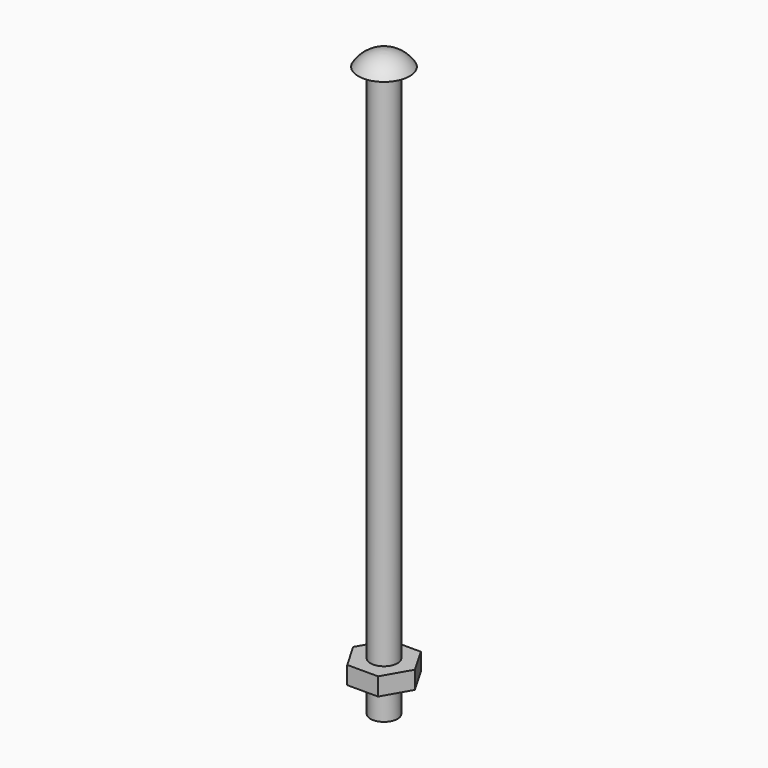
from build123d import *

# Parameters (mm, degrees)
F3_DEPTH = 3.175
F4_R     = 2.413
F5_DEPTH = 5.55625


with BuildPart() as f1:
    # F0 (on Front) → F1 (revolve)
    with BuildSketch(Plane.XZ):
        with BuildLine():
            Line((0, 0), (0, 92.86875))
            Line((0, 92.86875), (0, 95.43415))
            ThreePointArc((0, 95.43415), (-2.626821, 94.749192), (-4.5847, 92.86875))
            Line((-4.5847, 92.86875), (-2.413, 92.86875))
            Line((-2.413, 92.86875), (-2.413, 0))
            Line((-2.413, 0), (0, 0))
        make_face()
    revolve(axis=Axis((0, 0, 46.434375), (0, 0, -1)))

    # F2 (on face) → F3 (join)
    with BuildSketch(Plane(origin=(0, 0, 0), x_dir=(1, 0, 0), z_dir=(0, 0, -1))):
        Polygon((2.749631, 4.7625), (-2.749631, 4.7625), (-5.499261, 0), (-2.749631, -4.7625), (2.749631, -4.7625), (5.499261, 0), align=None)
    extrude(amount=F3_DEPTH)

    # F4 (on face) → F5 (join)
    with BuildSketch(Plane(origin=(0, 0, -3.175), x_dir=(1, 0, 0), z_dir=(0, 0, -1))):
        Circle(F4_R)
    extrude(amount=F5_DEPTH)


solid = f1.part
